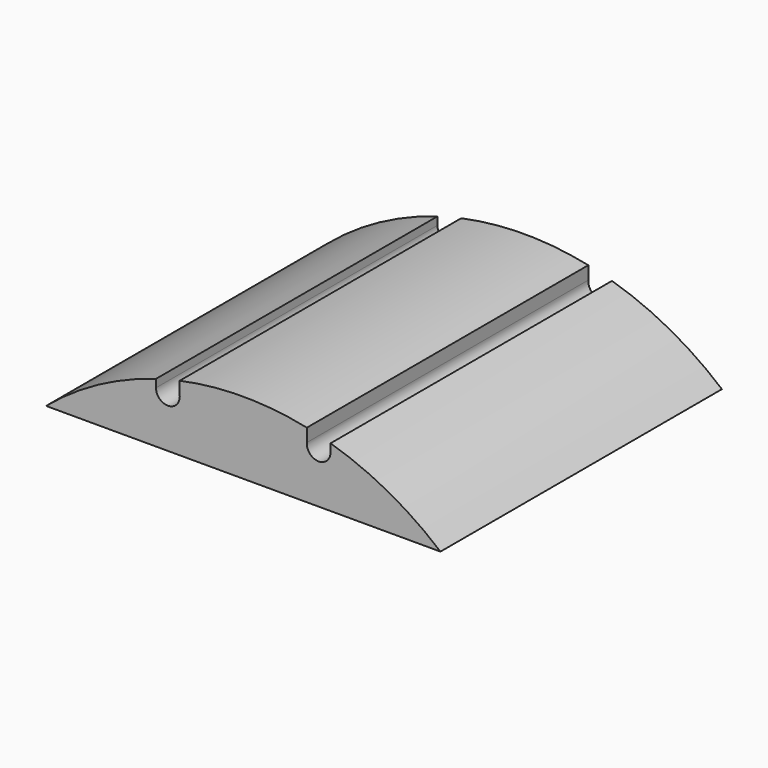
from build123d import *

# Parameters (mm, degrees)
F1_DEPTH = 88.9


with BuildPart() as f1:
    # F0 (on Front) → F1 (new body)
    with BuildSketch(Plane.XZ):
        with BuildLine():
            Line((-49.8280417436, 58.7375), (49.8280417436, 58.7375))
            ThreePointArc((49.8280417436, 58.7375), (36.7198515553, 67.7095277786), (22.05, 73.801931887))
            Line((22.05, 73.801931887), (22.05, 71.7951364665))
            ThreePointArc((22.05, 71.7951364665), (18.9376310607, 68.7972416683), (16.0584178523, 72.0197166389))
            Line((16.0584178523, 72.0197166389), (16.0584178523, 75.3329600263))
            ThreePointArc((16.0584178523, 75.3329600263), (-0.00173326, 77.0254999805), (-16.0618081837, 75.3322372436))
            Line((-16.0618081837, 75.3322372436), (-16.0618081837, 72.0610493636))
            ThreePointArc((-16.0618081837, 72.0610493636), (-16.0529534998, 71.9282239397), (-16.05, 71.7951364665))
            ThreePointArc((-16.05, 71.7951364665), (-19.05, 68.7951364665), (-22.05, 71.7951364665))
            Line((-22.05, 71.7951364665), (-22.05, 73.801931887))
            ThreePointArc((-22.05, 73.801931887), (-36.7198515553, 67.7095277787), (-49.8280417436, 58.7375))
        make_face()
    extrude(amount=F1_DEPTH)


solid = f1.part
